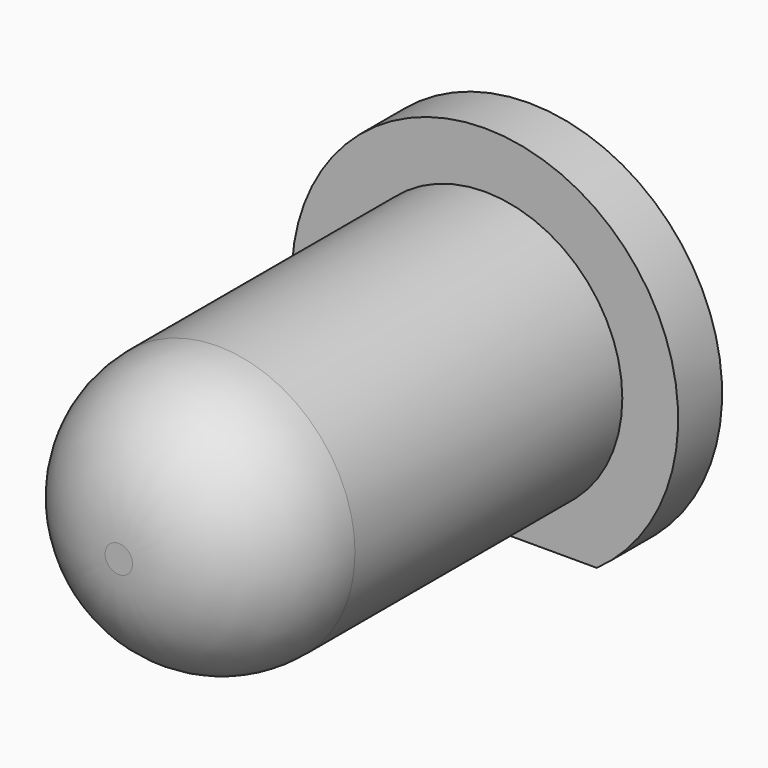
from build123d import *

# Parameters (mm, degrees)
F0_R     = 3.81
F1_DEPTH = 12.7
F2_R     = 3.429
F4_DEPTH = 1.524


with BuildPart() as f1:
    # F0 (on Front) → F1 (new body)
    with BuildSketch(Plane.XZ):
        Circle(F0_R)
    extrude(amount=F1_DEPTH)

    # F2
    f2_edges = [f1.edges().sort_by_distance(p)[0] for p in [
        (-3.81, -12.7, 0),
    ]]
    fillet(f2_edges, radius=F2_R)

    # F3 (on face) → F4 (join)
    with BuildSketch(Plane(origin=(0, 0, 0), x_dir=(-1, 0, 0), z_dir=(0, 1, 0))):
        with BuildLine():
            Line((-3.101973, -4.370782), (3.101973, -4.370782))
            ThreePointArc((3.101973, -4.370782), (0, 5.359661), (-3.101973, -4.370782))
        make_face()
    extrude(amount=F4_DEPTH)


solid = f1.part
